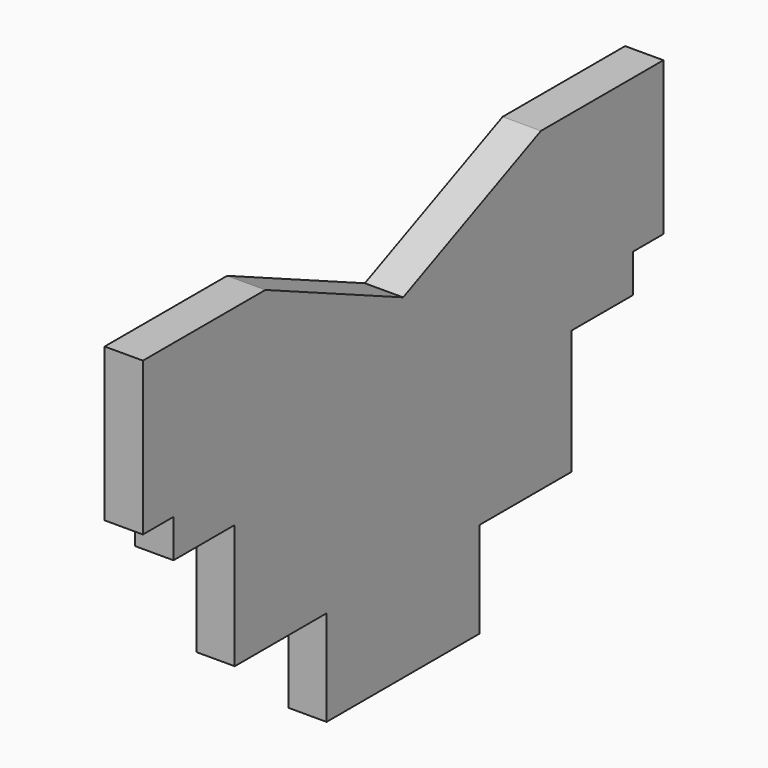
from build123d import *

# Parameters (mm, degrees)
F1_DEPTH = 25.4


with BuildPart() as f1:
    # F0 (on Right) → F1 (new body)
    with BuildSketch(Plane.YZ):
        Polygon((-114.3, 136.525), (-215.9, 136.525), (-215.9, 34.925), (-190.5, 34.925), (-190.5, 9.525), (-139.7, 9.525), (-139.7, -73.025), (-63.5, -73.025), (-63.5, -136.525), (63.5, -136.525), (63.5, -73.025), (139.7, -73.025), (139.7, 9.525), (190.5, 9.525), (190.5, 34.925), (215.9, 34.925), (215.9, 136.525), (114.3, 136.525), (0, 85.725), align=None)
    extrude(amount=F1_DEPTH)


solid = f1.part
